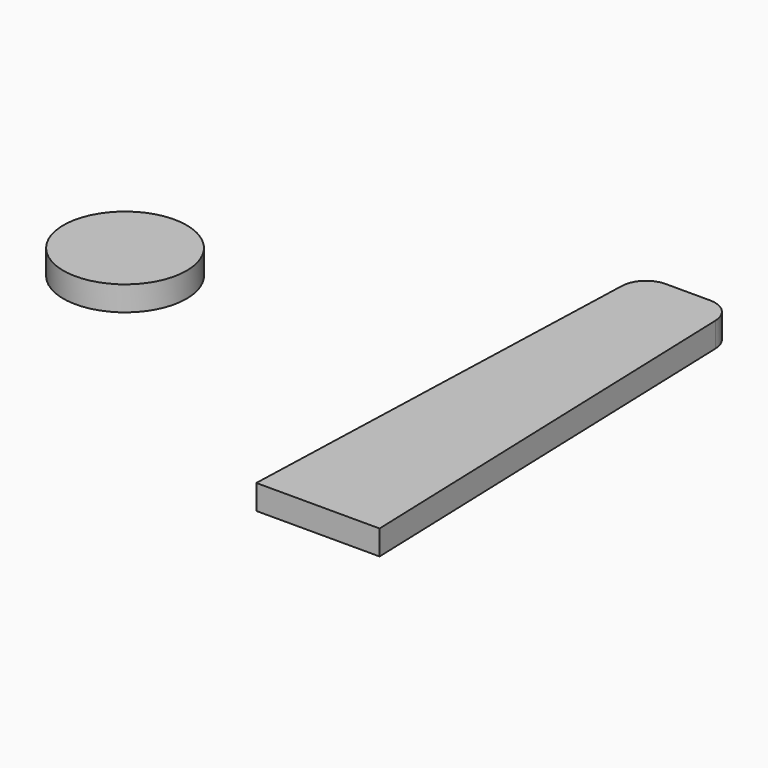
from build123d import *

# Parameters (mm, degrees)
F0_R     = 0.635
F1_DEPTH = 0.254


with BuildPart() as f1:
    # F0 (on Top) → F1 (new body)
    with BuildSketch(Plane.XY):
        with BuildLine():
            Line((-0.482455, 4.518626), (-0.635, 0))
            Line((-0.635, 0), (0.635, 0))
            Line((0.635, 0), (0.482455, 4.518626))
            ThreePointArc((0.482455, 4.518626), (0.405149, 4.692666), (0.2286, 4.764056))
            Line((0.2286, 4.764056), (-0.2286, 4.764056))
            ThreePointArc((-0.2286, 4.764056), (-0.405149, 4.692666), (-0.482455, 4.518626))
        make_face()
        with Locations((-4.016986, 2.536933)):
            Circle(F0_R)
    extrude(amount=F1_DEPTH)


solid = f1.part
